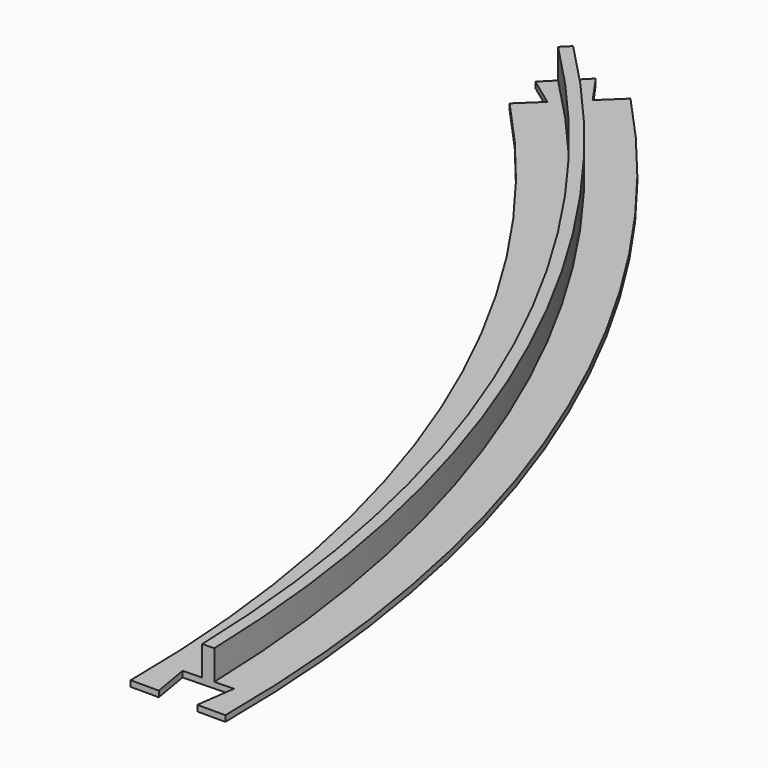
from build123d import *

# Parameters (mm, degrees)
POCKET_DEPTH         = 0.001
POCKET_DEPTH_BACK    = 6.001
POCKET001_DEPTH      = 0.001
POCKET001_DEPTH_BACK = 6.001


with BuildPart() as part:
    # AdditivePipe: sweep along a path in Sketch
    with BuildLine(Plane.XY) as additivepipe_path:
        ThreePointArc((240, 0), (221.731088, 91.844024), (169.705627, 169.705627))
    # Sketch001 → AdditivePipe (sweep)
    with BuildSketch(Plane(origin=(240, 0, 0), x_dir=(1, 0, 0), z_dir=(0, -1, 0))):
        Polygon((-8, 0), (8, 0), (8, 1), (1, 1), (1, 6), (-1, 6), (-1, 1), (-8, 1), align=None)
    sweep(path=additivepipe_path.line, is_frenet=True)

    # Sketch002 → Pocket (cut, two sides)
    with BuildSketch(Plane.XY) as pocket_sk:
        Polygon((235.663538, 6.38431), (236.75, 0), (243.25, 0), (244.16042, 6.614498), align=None)
    extrude(amount=-POCKET_DEPTH, mode=Mode.SUBTRACT)
    extrude(pocket_sk.sketch, amount=POCKET_DEPTH_BACK, mode=Mode.SUBTRACT)

    # Sketch003 → Pocket001 (cut, two sides)
    with BuildSketch(Plane.XY) as pocket001_sk:
        Polygon((166.8772, 166.8772), (171.721217, 163.342657), (155.73217, 148.133741), (152.027958, 152.027958), align=None)
        Polygon((172.534055, 172.534055), (176.06859, 167.477914), (192.057638, 182.68683), (187.383297, 187.383297), align=None)
    extrude(amount=-POCKET001_DEPTH, mode=Mode.SUBTRACT)
    extrude(pocket001_sk.sketch, amount=POCKET001_DEPTH_BACK, mode=Mode.SUBTRACT)


solid = part.part
